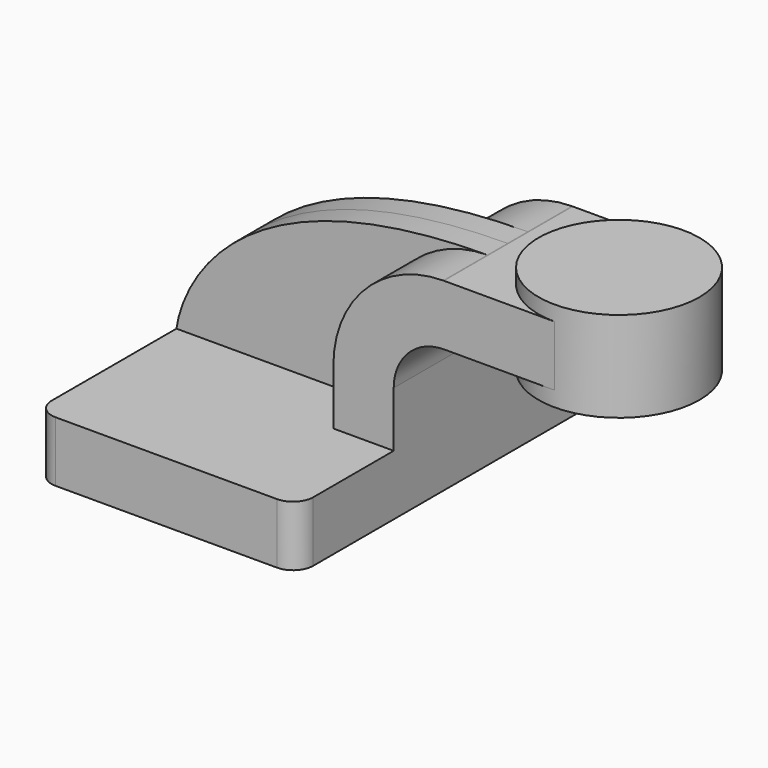
from build123d import *

# Parameters (mm, degrees)
F1_DEPTH = 63.5
F0_W     = 25.4
F0_H     = 19.05
F2_DEPTH = 25.4
F3_DEPTH = 7.9375
F5_R     = 6.35


with BuildPart() as f1:
    # F0 (on Front) → F1 (new body, symmetric)
    with BuildSketch(Plane.XZ):
        Polygon((41.275, -9.525), (41.275, 9.525), (22.225, 9.525), (-41.275, 9.525), (-41.275, -9.525), align=None)
    extrude(amount=F1_DEPTH, both=True)

    # F0 (on Front) → F2 (join, symmetric)
    with BuildSketch(Plane.XZ):
        with BuildLine():
            Line((22.225, 9.525), (41.275, 9.525))
            Line((41.275, 9.525), (41.275, 27.0002))
            ThreePointArc((41.275, 27.0002), (45.9246798487, 38.2255201513), (57.15, 42.8752))
            Line((57.15, 42.8752), (66.675, 42.8752))
            Line((66.675, 42.8752), (66.675, 61.9252))
            Line((66.675, 61.9252), (57.15, 61.9252))
            add(Edge.make_bspline(
                [(56.9028538387, 61.9243255263), (56.9851686946, 61.9246577884), (57.0675507307, 61.9249493028), (57.15, 61.9252)],
                knots=[111.3887853631, 111.3887853631, 111.3887853631, 111.3887853631, 111.5045361635, 111.5045361635, 111.5045361635, 111.5045361635], degree=3))
            ThreePointArc((56.9028538387, 61.9243255263), (32.3670703438, 51.6083698356), (22.225, 27.0002))
            Line((22.225, 27.0002), (22.225, 9.525))
        make_face()
        with Locations((79.375, 52.4002)):
            Rectangle(F0_W, F0_H)
    extrude(amount=F2_DEPTH, both=True)

    # F0 (on Front) → F3 (join, symmetric)
    with BuildSketch(Plane.XZ):
        Polygon((41.275, -9.525), (41.275, 9.525), (22.225, 9.525), (-41.275, 9.525), (-41.275, -9.525), align=None)
        with BuildLine():
            Line((22.225, 9.525), (41.275, 9.525))
            Line((41.275, 9.525), (41.275, 27.0002))
            ThreePointArc((41.275, 27.0002), (45.9246798487, 38.2255201513), (57.15, 42.8752))
            Line((57.15, 42.8752), (66.675, 42.8752))
            Line((66.675, 42.8752), (66.675, 61.9252))
            Line((66.675, 61.9252), (57.15, 61.9252))
            add(Edge.make_bspline(
                [(56.9028538387, 61.9243255263), (56.9851686946, 61.9246577884), (57.0675507307, 61.9249493028), (57.15, 61.9252)],
                knots=[111.3887853631, 111.3887853631, 111.3887853631, 111.3887853631, 111.5045361635, 111.5045361635, 111.5045361635, 111.5045361635], degree=3))
            ThreePointArc((56.9028538387, 61.9243255263), (32.3670703438, 51.6083698356), (22.225, 27.0002))
            Line((22.225, 27.0002), (22.225, 9.525))
        make_face()
        with Locations((79.375, 52.4002)):
            Rectangle(F0_W, F0_H)
        with BuildLine():
            Line((-41.275, 9.525), (22.225, 9.525))
            Line((22.225, 9.525), (22.225, 27.0002))
            ThreePointArc((22.225, 27.0002), (32.3670703438, 51.6083698356), (56.9028538387, 61.9243255263))
            add(Edge.make_bspline(
                [(-41.275, 9.525), (-39.3105568509, 23.5502866189), (-22.3100050541, 61.6045845118), (56.9028538387, 61.9243255263)],
                knots=[0, 0, 0, 0, 111.3887853631, 111.3887853631, 111.3887853631, 111.3887853631], degree=3))
        make_face()
    extrude(amount=F3_DEPTH, both=True)

    # F0 (on Front) → F4 (revolve)
    with BuildSketch(Plane.XZ):
        Polygon((92.075, 61.9252), (92.075, 42.8752), (92.075, 38.1), (117.475, 38.1), (117.475, 66.675), (92.075, 66.675), align=None)
    revolve(axis=Axis((92.075, 0, 52.3875), (0, 0, 1)))

    # F5
    f5_edges = [f1.edges().sort_by_distance(p)[0] for p in [
        (-41.275, -63.5, 0),
        (41.275, -63.5, 0),
        (41.275, 63.5, 0),
        (-41.275, 63.5, 0),
    ]]
    fillet(f5_edges, radius=F5_R)


solid = f1.part
